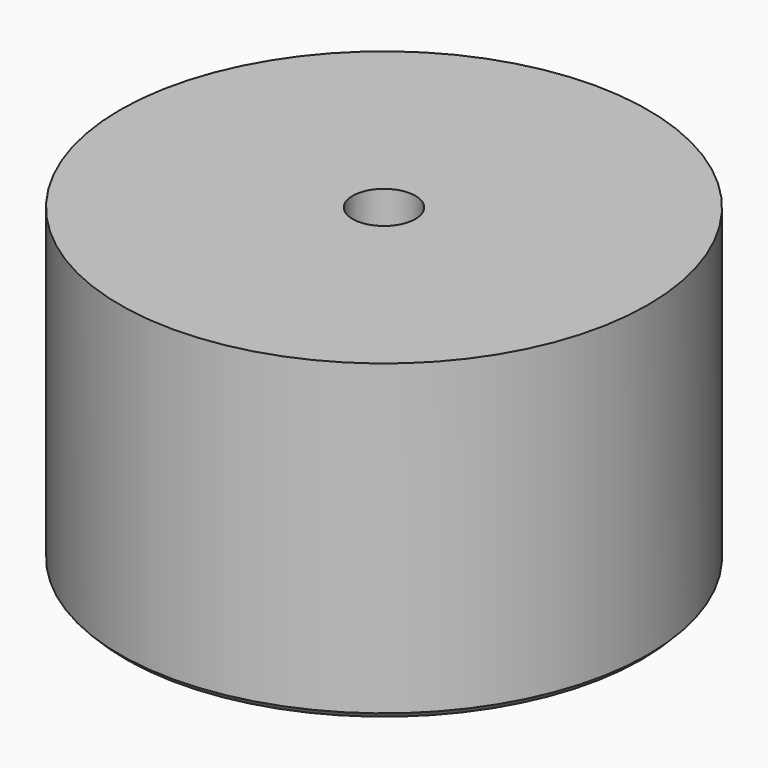
from build123d import *

# Parameters (mm, degrees)
F0_R     = 21
F0_R_2   = 2.5
F1_DEPTH = 25
F2_SIZE  = 1
F3_SIZE  = 0.5


with BuildPart() as f1:
    # F0 (on Top) → F1 (new body)
    with BuildSketch(Plane.XY):
        Circle(F0_R)
        Circle(F0_R_2, mode=Mode.SUBTRACT)
    extrude(amount=F1_DEPTH)

    # F2
    f2_edges = [f1.edges().sort_by_distance(p)[0] for p in [
        (-2.5, 0, 0),
    ]]
    chamfer(f2_edges, length=F2_SIZE)

    # F3
    f3_edges = [f1.edges().sort_by_distance(p)[0] for p in [
        (-21, 0, 0),
    ]]
    chamfer(f3_edges, length=F3_SIZE)


solid = f1.part
